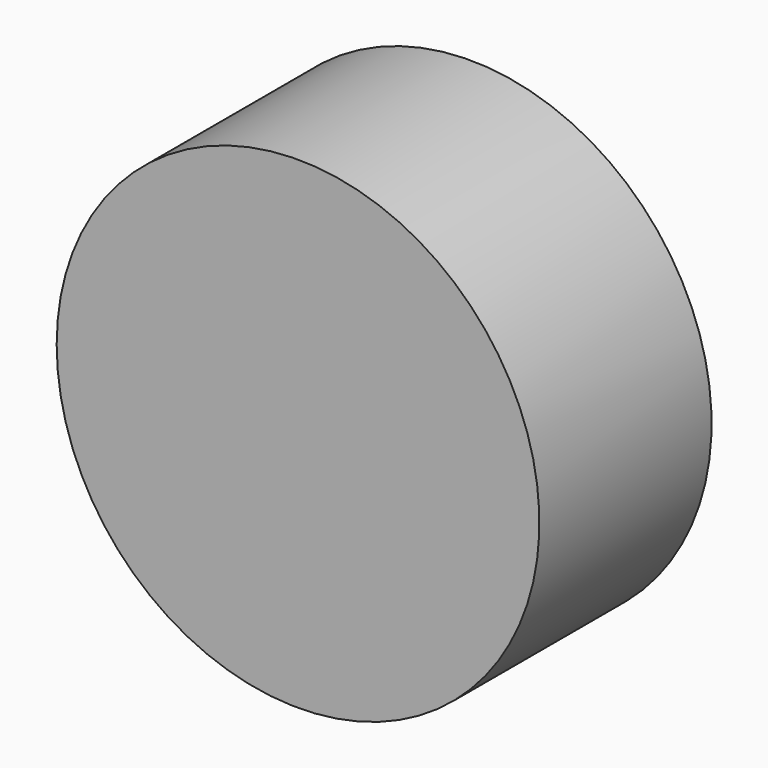
from build123d import *

# Parameters (mm, degrees)
SKETCH034_R     = 3.925
SKETCH034_R_2   = 1.75
PAD016_DEPTH    = 1.5
SKETCH035_R     = 3.925
PAD017_DEPTH    = 2
CHAMFER001_SIZE = 0.3


with BuildPart() as part:
    # Sketch034 (on DatumPlane) → Pad016 (new body)
    with BuildSketch(Plane(origin=(0.0002244487, 33.0000455142, 5.0001576066), x_dir=(-0.999999999, 4e-10, 4.48856e-05), z_dir=(0, -1, 9.1023e-06))):
        with Locations((27.900008, 3)):
            Circle(SKETCH034_R)
        with Locations((27.900008, 3)):
            Circle(SKETCH034_R_2, mode=Mode.SUBTRACT)
    extrude(amount=PAD016_DEPTH)

    # Sketch035 (on Face4 of Pad016) → Pad017 (join)
    with BuildSketch(Plane(origin=(0.0002244487, 31.5000455143, 5.00017126), x_dir=(-0.999999999, 4e-10, 4.48856e-05), z_dir=(0, -1, 9.1023e-06))):
        with Locations((27.900008, 3)):
            Circle(SKETCH035_R)
    extrude(amount=PAD017_DEPTH)

    # Chamfer001
    chamfer001_edges = [part.edges().sort_by_distance(p)[0] for p in [
        (-26.149918, 33.000018, 2.001331),
    ]]
    chamfer(chamfer001_edges, length=CHAMFER001_SIZE)


solid = part.part
